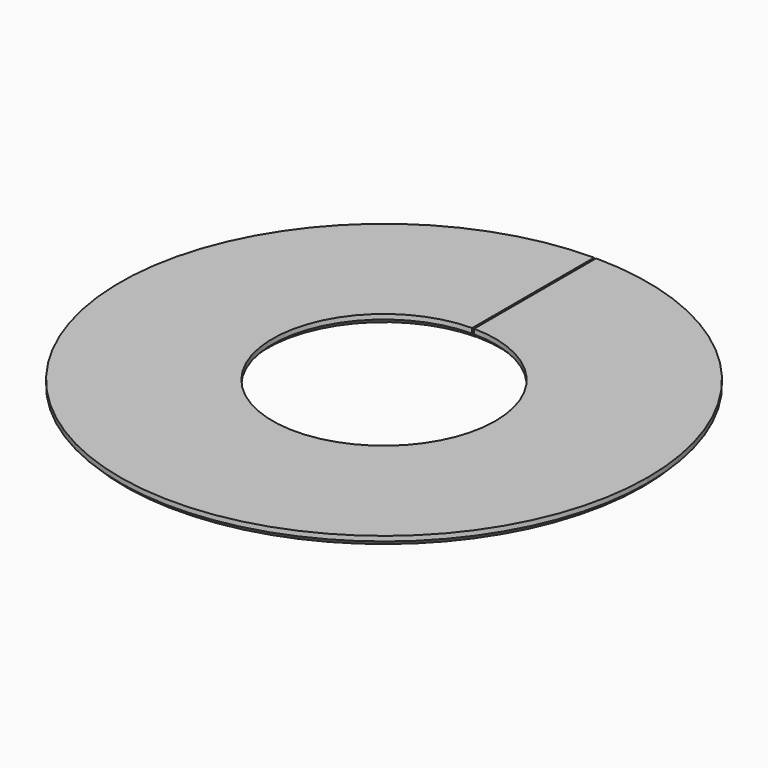
from build123d import *

# Parameters (mm, degrees)
F0_R     = 27
F0_R_2   = 11.4
F1_DEPTH = 1
F3_DEPTH = 1
F4_SIZE  = 0.5


with BuildPart() as f1:
    # F0 (on Top) → F1 (new body)
    with BuildSketch(Plane.XY):
        Circle(F0_R)
        Circle(F0_R_2, mode=Mode.SUBTRACT)
    extrude(amount=F1_DEPTH)

    # F2 (on face) → F3 (cut, through all)
    with BuildSketch(Plane.XY.offset(1)):
        with BuildLine():
            ThreePointArc((0.1, 26.999815), (0, 27), (-0.1, 26.999815))
            Line((-0.1, 26.999815), (-0.1, 11.399561))
            Line((-0.1, 11.399561), (0.1, 11.399561))
            Line((0.1, 11.399561), (0.1, 26.999815))
        make_face()
    extrude(amount=-F3_DEPTH, mode=Mode.SUBTRACT)

    # F4
    f4_edges = [f1.edges().sort_by_distance(p)[0] for p in [
        (-19.056495, -19.127206, 0),
        (-8.025584, -8.096295, 0),
    ]]
    chamfer(f4_edges, length=F4_SIZE)


solid = f1.part
